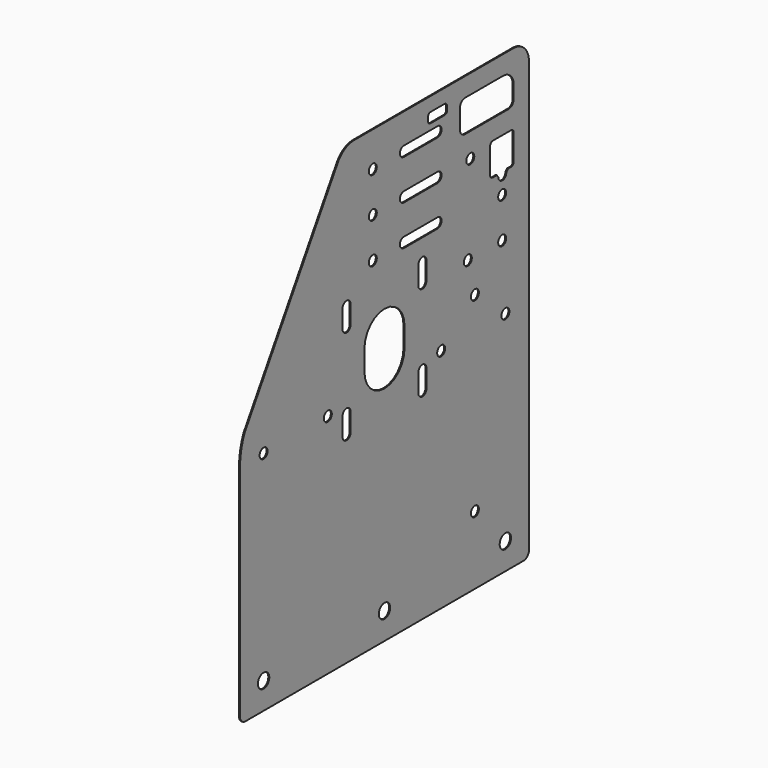
from build123d import *

# Parameters (mm, degrees)
F1_DEPTH = 12.7


with BuildPart() as f1:
    # F0 (on Right) → F1 (new body)
    with BuildSketch(Plane.YZ):
        Polygon((-4353.091649, 5396.128324), (-4357.661973, 5365.923177), (-4361.221961, 5335.582395), (-4363.76765, 5305.139707), (-4365.805899, 5244.084356), (-4365.805899, 2466.513152), (-4365.075166, 2455.364279), (-4362.895465, 2444.406186), (-4359.304083, 2433.826349), (-4354.362488, 2423.805795), (-4348.155236, 2414.515974), (-4340.788524, 2406.115838), (-4332.388389, 2398.749101), (-4323.098542, 2392.541849), (-4313.077988, 2387.600254), (-4302.498151, 2384.008872), (-4291.540058, 2381.829171), (-4280.391211, 2381.098438), (121.795413, 2381.098438), (132.94426, 2381.829171), (143.902354, 2384.008872), (154.48219, 2387.600254), (164.502744, 2392.541849), (173.792591, 2398.749101), (182.192727, 2406.115838), (189.559438, 2414.515974), (195.76669, 2423.805795), (200.708285, 2433.826349), (204.299668, 2444.406186), (206.479369, 2455.364279), (207.210101, 2466.513152), (207.248531, 7913.835506), (205.148409, 7945.880425), (198.883549, 7977.37706), (188.561116, 8007.786499), (174.357767, 8036.588448), (156.516476, 8063.290046), (135.342554, 8087.434447), (111.198304, 8108.608548), (84.496834, 8126.450016), (55.694986, 8140.653569), (25.285598, 8150.976205), (-6.210986, 8157.241318), (-38.25588, 8159.341644), (-2557.50822, 8159.341644), (-2583.457978, 8158.236744), (-2609.219902, 8154.930071), (-2634.607532, 8149.445525), (-2659.437074, 8141.822807), (-2683.528796, 8132.117111), (-2706.708303, 8120.398694), (-2728.807852, 8106.752392), (-2749.667424, 8091.276934), (-2769.136042, 8074.084385), (-2787.07281, 8055.29918), (-2803.347886, 8035.057311), (-2817.843412, 8013.505258), (-4293.377469, 5600.968503), (-4315.302114, 5543.949034), (-4324.825513, 5514.922447), (-4333.375128, 5485.594287), (-4340.941483, 5455.997191), (-4347.516095, 5426.164129), align=None)
        Polygon((-4056.517998, 2652.941811), (-4070.922364, 2671.713961), (-4079.977311, 2693.574572), (-4083.065799, 2717.033911), (-4079.977311, 2740.493249), (-4070.922364, 2762.353861), (-4056.517998, 2781.12601), (-4037.745849, 2795.530375), (-4015.885237, 2804.585323), (-3992.425899, 2807.673811), (-3968.96656, 2804.585323), (-3947.105949, 2795.530375), (-3928.333799, 2781.12601), (-3913.929434, 2762.353861), (-3904.874486, 2740.493249), (-3901.785999, 2717.033911), (-3904.874486, 2693.574572), (-3913.929434, 2671.713961), (-3928.333799, 2652.941811), (-3947.105949, 2638.537446), (-3968.96656, 2629.482498), (-3992.425899, 2626.394011), (-4015.885237, 2629.482498), (-4037.745849, 2638.537446), align=None, mode=Mode.SUBTRACT)
        Polygon((-1991.746486, 2740.493249), (-1988.657999, 2717.033911), (-1991.746486, 2693.574572), (-2000.801434, 2671.713961), (-2015.205799, 2652.941811), (-2033.977949, 2638.537446), (-2055.83856, 2629.482498), (-2079.297899, 2626.394011), (-2102.757237, 2629.482498), (-2124.617849, 2638.537446), (-2143.389998, 2652.941811), (-2157.794364, 2671.713961), (-2166.849311, 2693.574572), (-2169.937799, 2717.033911), (-2166.849311, 2740.493249), (-2157.794364, 2762.353861), (-2143.389998, 2781.12601), (-2124.617849, 2795.530375), (-2102.757237, 2804.585323), (-2079.297899, 2807.673811), (-2055.83856, 2804.585323), (-2033.977949, 2795.530375), (-2015.205799, 2781.12601), (-2000.801434, 2762.353861), align=None, mode=Mode.SUBTRACT)
        Polygon((-3947.524617, 5207.039929), (-3960.675899, 5196.94861), (-3975.99088, 5190.604935), (-3992.425899, 5188.441211), (-4008.860918, 5190.604935), (-4024.175899, 5196.94861), (-4037.327181, 5207.039929), (-4047.418524, 5220.191211), (-4053.7622, 5235.506217), (-4055.925899, 5251.941211), (-4053.7622, 5268.37623), (-4047.418524, 5283.691211), (-4037.327181, 5296.842492), (-4024.175899, 5306.933836), (-4008.860918, 5313.277512), (-3992.425899, 5315.441211), (-3975.99088, 5313.277512), (-3960.675899, 5306.933836), (-3947.524617, 5296.842492), (-3937.433273, 5283.691211), (-3931.089598, 5268.37623), (-3928.925899, 5251.941211), (-3931.089598, 5235.506217), (-3937.433273, 5220.191211), align=None, mode=Mode.SUBTRACT)
        Polygon((-2976.425899, 5315.441211), (-2959.99088, 5313.277512), (-2944.675899, 5306.933836), (-2931.524617, 5296.842492), (-2921.433273, 5283.691211), (-2915.089598, 5268.37623), (-2912.925899, 5251.941211), (-2915.089598, 5235.506217), (-2921.433273, 5220.191211), (-2931.524617, 5207.039929), (-2944.675899, 5196.94861), (-2959.99088, 5190.604935), (-2976.425899, 5188.441211), (-2992.860918, 5190.604935), (-3008.175899, 5196.94861), (-3021.327181, 5207.039929), (-3031.418524, 5220.191211), (-3037.7622, 5235.506217), (-3039.925899, 5251.941211), (-3037.7622, 5268.37623), (-3031.418524, 5283.691211), (-3021.327181, 5296.842492), (-3008.175899, 5306.933836), (-2992.860918, 5313.277512), align=None, mode=Mode.SUBTRACT)
        Polygon((-2744.064743, 4926.332134), (-2744.064743, 5154.931524), (-2741.866678, 5171.629509), (-2735.421555, 5187.189448), (-2725.168692, 5200.551321), (-2711.806819, 5210.803523), (-2696.246906, 5217.249306), (-2679.548921, 5219.447346), (-2662.850935, 5217.249306), (-2647.290997, 5210.803523), (-2633.929784, 5200.551321), (-2623.676922, 5187.189448), (-2617.231799, 5171.629509), (-2615.033099, 5154.931524), (-2615.033099, 4926.332134), (-2617.231799, 4909.634148), (-2623.676922, 4894.074235), (-2633.929784, 4880.712362), (-2647.290997, 4870.4595), (-2662.850935, 4864.014377), (-2679.548921, 4861.816311), (-2696.246906, 4864.014377), (-2711.806819, 4870.4595), (-2725.168692, 4880.712362), (-2735.421555, 4894.074235), (-2741.866678, 4909.634148), align=None, mode=Mode.SUBTRACT)
        Polygon((-256.809799, 2717.033911), (-253.721311, 2740.493249), (-244.666364, 2762.353861), (-230.261998, 2781.12601), (-211.489849, 2795.530375), (-189.629237, 2804.585323), (-166.169899, 2807.673811), (-142.71056, 2804.585323), (-120.849949, 2795.530375), (-102.077799, 2781.12601), (-87.673434, 2762.353861), (-78.618486, 2740.493249), (-75.529999, 2717.033911), (-78.618486, 2693.574572), (-87.673434, 2671.713961), (-102.077799, 2652.941811), (-120.849949, 2638.537446), (-142.71056, 2629.482498), (-166.169899, 2626.394011), (-189.629237, 2629.482498), (-211.489849, 2638.537446), (-230.261998, 2652.941811), (-244.666364, 2671.713961), (-253.721311, 2693.574572), align=None, mode=Mode.SUBTRACT)
        Polygon((-617.019899, 3300.512881), (-603.868617, 3290.421537), (-593.777273, 3277.270255), (-587.433598, 3261.955274), (-585.269899, 3245.520255), (-587.433598, 3229.085261), (-593.777273, 3213.770255), (-603.868617, 3200.618973), (-617.019899, 3190.527655), (-632.33488, 3184.18398), (-648.769899, 3182.020255), (-665.204918, 3184.18398), (-680.519899, 3190.527655), (-693.671181, 3200.618973), (-703.762524, 3213.770255), (-710.1062, 3229.085261), (-712.269899, 3245.520255), (-710.1062, 3261.955274), (-703.762524, 3277.270255), (-693.671181, 3290.421537), (-680.519899, 3300.512881), (-665.204918, 3306.856556), (-648.769899, 3309.020255), (-632.33488, 3306.856556), align=None, mode=Mode.SUBTRACT)
        Polygon((-1535.427257, 4894.074235), (-1541.87238, 4909.634148), (-1544.070445, 4926.332134), (-1544.070445, 5154.931524), (-1541.87238, 5171.629509), (-1535.427257, 5187.189448), (-1525.174394, 5200.551321), (-1511.812521, 5210.803523), (-1496.252608, 5217.249306), (-1479.554623, 5219.447346), (-1462.856637, 5217.249306), (-1447.296699, 5210.803523), (-1433.935486, 5200.551321), (-1423.682624, 5187.189448), (-1417.237501, 5171.629509), (-1415.038801, 5154.931524), (-1415.038801, 4926.332134), (-1417.237501, 4909.634148), (-1423.682624, 4894.074235), (-1433.935486, 4880.712362), (-1447.296699, 4870.4595), (-1462.856637, 4864.014377), (-1479.554623, 4861.816311), (-1496.252608, 4864.014377), (-1511.812521, 4870.4595), (-1525.174394, 4880.712362), align=None, mode=Mode.SUBTRACT)
        Polygon((-1182.169899, 5315.441211), (-1165.73488, 5313.277512), (-1150.419899, 5306.933836), (-1137.268617, 5296.842492), (-1127.177273, 5283.691211), (-1120.833598, 5268.37623), (-1118.669899, 5251.941211), (-1120.833598, 5235.506217), (-1127.177273, 5220.191211), (-1137.268617, 5207.039929), (-1150.419899, 5196.94861), (-1165.73488, 5190.604935), (-1182.169899, 5188.441211), (-1198.604918, 5190.604935), (-1213.919899, 5196.94861), (-1227.071181, 5207.039929), (-1237.162524, 5220.191211), (-1243.5062, 5235.506217), (-1245.669899, 5251.941211), (-1243.5062, 5268.37623), (-1237.162524, 5283.691211), (-1227.071181, 5296.842492), (-1213.919899, 5306.933836), (-1198.604918, 5313.277512), align=None, mode=Mode.SUBTRACT)
        Polygon((-221.162524, 5283.691211), (-211.071181, 5296.842492), (-197.919899, 5306.933836), (-182.604918, 5313.277512), (-166.169899, 5315.441211), (-149.73488, 5313.277512), (-134.419899, 5306.933836), (-121.268617, 5296.842492), (-111.177273, 5283.691211), (-104.833598, 5268.37623), (-102.669899, 5251.941211), (-104.833598, 5235.506217), (-111.177273, 5220.191211), (-121.268617, 5207.039929), (-134.419899, 5196.94861), (-149.73488, 5190.604935), (-166.169899, 5188.441211), (-182.604918, 5190.604935), (-197.919899, 5196.94861), (-211.071181, 5207.039929), (-221.162524, 5220.191211), (-227.5062, 5235.506217), (-229.669899, 5251.941211), (-227.5062, 5268.37623), align=None, mode=Mode.SUBTRACT)
        Polygon((-2161.98102, 5206.74915), (-2238.55595, 5238.467527), (-2304.312359, 5288.924195), (-2354.769027, 5354.680604), (-2386.487404, 5431.255559), (-2397.30595, 5513.430604), (-2397.30595, 5767.430604), (-2386.487404, 5849.605649), (-2354.769027, 5926.180604), (-2304.312359, 5991.937013), (-2238.55595, 6042.393681), (-2161.980995, 6074.112058), (-2079.80595, 6084.930604), (-1997.630904, 6074.112058), (-1921.05595, 6042.393681), (-1855.299541, 5991.937013), (-1804.842898, 5926.180604), (-1773.124495, 5849.605649), (-1762.30595, 5767.430604), (-1762.30595, 5513.430604), (-1773.124521, 5431.255559), (-1804.842898, 5354.680604), (-1855.299566, 5288.924195), (-1921.05595, 5238.467527), (-1997.630904, 5206.74915), (-2079.80595, 5195.930604), align=None, mode=Mode.SUBTRACT)
        Polygon((-2744.064743, 6126.326432), (-2744.064743, 6354.925822), (-2741.866678, 6371.623807), (-2735.421555, 6387.183746), (-2725.168692, 6400.545619), (-2711.806819, 6410.797821), (-2696.246906, 6417.243604), (-2679.548921, 6419.441644), (-2662.850935, 6417.243604), (-2647.290997, 6410.797821), (-2633.929784, 6400.545619), (-2623.676922, 6387.183746), (-2617.231799, 6371.623807), (-2615.033099, 6354.925822), (-2615.033099, 6126.326432), (-2617.231799, 6109.628446), (-2623.676922, 6094.068533), (-2633.929784, 6080.70666), (-2647.290997, 6070.453798), (-2662.850935, 6064.008675), (-2679.548921, 6061.810609), (-2696.246906, 6064.008675), (-2711.806819, 6070.453798), (-2725.168692, 6080.70666), (-2735.421555, 6094.068533), (-2741.866678, 6109.628446), align=None, mode=Mode.SUBTRACT)
        Polygon((-2280.87969, 6758.795626), (-2264.444696, 6760.959325), (-2248.009677, 6758.795626), (-2232.694696, 6752.451951), (-2219.543415, 6742.360607), (-2209.452071, 6729.209325), (-2203.108395, 6713.894345), (-2200.944696, 6697.459325), (-2203.108395, 6681.024332), (-2209.452071, 6665.709325), (-2219.543415, 6652.558044), (-2232.694696, 6642.466725), (-2248.009677, 6636.12305), (-2264.444696, 6633.959325), (-2280.879716, 6636.12305), (-2296.194696, 6642.466725), (-2309.345978, 6652.558044), (-2319.437297, 6665.709325), (-2325.780997, 6681.024332), (-2327.944696, 6697.459325), (-2325.780972, 6713.894345), (-2319.437297, 6729.209325), (-2309.345978, 6742.360607), (-2296.194696, 6752.451951), align=None, mode=Mode.SUBTRACT)
        Polygon((-2319.437297, 7238.458701), (-2309.345978, 7251.609982), (-2296.194696, 7261.701326), (-2280.87969, 7268.045002), (-2264.444696, 7270.208701), (-2248.009677, 7268.045002), (-2232.694696, 7261.701301), (-2219.543415, 7251.609982), (-2209.452071, 7238.458701), (-2203.108395, 7223.14372), (-2200.944696, 7206.708701), (-2203.108395, 7190.273681), (-2209.452071, 7174.958701), (-2219.543415, 7161.807419), (-2232.694696, 7151.716075), (-2248.009677, 7145.3724), (-2264.444696, 7143.208701), (-2280.879716, 7145.3724), (-2296.194696, 7151.716075), (-2309.345978, 7161.807419), (-2319.437297, 7174.958701), (-2325.780997, 7190.273681), (-2327.944696, 7206.708701), (-2325.780972, 7223.14372), align=None, mode=Mode.SUBTRACT)
        Polygon((-2264.444696, 7651.208701), (-2280.879716, 7653.3724), (-2296.194696, 7659.716075), (-2309.345978, 7669.807419), (-2319.437297, 7682.958701), (-2325.780997, 7698.273681), (-2327.944696, 7714.708701), (-2325.780972, 7731.14372), (-2319.437297, 7746.458701), (-2309.345978, 7759.609982), (-2296.194696, 7769.701326), (-2280.87969, 7776.045002), (-2264.444696, 7778.208701), (-2248.009677, 7776.045002), (-2232.694696, 7769.701301), (-2219.543415, 7759.609982), (-2209.452071, 7746.458701), (-2203.108395, 7731.14372), (-2200.944696, 7714.708701), (-2203.108395, 7698.273681), (-2209.452071, 7682.958701), (-2219.543415, 7669.807419), (-2232.694696, 7659.716075), (-2248.009677, 7653.3724), align=None, mode=Mode.SUBTRACT)
        Polygon((-1511.812521, 6070.453798), (-1525.174394, 6080.70666), (-1535.427257, 6094.068533), (-1541.87238, 6109.628446), (-1544.070445, 6126.326432), (-1544.070445, 6354.925822), (-1541.87238, 6371.623807), (-1535.427257, 6387.183746), (-1525.174394, 6400.545619), (-1511.812521, 6410.797821), (-1496.252608, 6417.243604), (-1479.554623, 6419.441644), (-1462.856637, 6417.243604), (-1447.296699, 6410.797821), (-1433.935486, 6400.545619), (-1423.682624, 6387.183746), (-1417.237501, 6371.623807), (-1415.038801, 6354.925822), (-1415.038801, 6126.326432), (-1417.237501, 6109.628446), (-1423.682624, 6094.068533), (-1433.935486, 6080.70666), (-1447.296699, 6070.453798), (-1462.856637, 6064.008675), (-1479.554623, 6061.810609), (-1496.252608, 6064.008675), align=None, mode=Mode.SUBTRACT)
        Polygon((-1804.524737, 6754.44453), (-1789.209985, 6760.787748), (-1772.77522, 6762.9516), (-1239.371816, 6762.9516), (-1222.937077, 6760.787748), (-1207.622299, 6754.44453), (-1194.470738, 6744.352983), (-1184.379826, 6731.202082), (-1178.035998, 6715.88667), (-1175.872121, 6699.451905), (-1178.035998, 6683.017139), (-1184.379826, 6667.701727), (-1194.470738, 6654.550826), (-1207.622299, 6644.459254), (-1222.937077, 6638.115426), (-1239.371816, 6635.952209), (-1772.77522, 6635.952209), (-1789.209985, 6638.115426), (-1804.524737, 6644.459254), (-1817.676299, 6654.550826), (-1827.767211, 6667.701727), (-1834.111064, 6683.017139), (-1836.274915, 6699.451905), (-1834.111064, 6715.88667), (-1827.767211, 6731.202082), (-1817.676299, 6744.352983), align=None, mode=Mode.SUBTRACT)
        Polygon((-710.1062, 5642.085261), (-712.269899, 5658.520255), (-710.1062, 5674.955274), (-703.762524, 5690.270255), (-693.671181, 5703.421537), (-680.519899, 5713.512881), (-665.204918, 5719.856556), (-648.769899, 5722.020255), (-632.33488, 5719.856556), (-617.019899, 5713.512881), (-603.868617, 5703.421537), (-593.777273, 5690.270255), (-587.433598, 5674.955274), (-585.269899, 5658.520255), (-587.433598, 5642.085261), (-593.777273, 5626.770255), (-603.868617, 5613.618973), (-617.019899, 5603.527655), (-632.33488, 5597.18398), (-648.769899, 5595.020255), (-665.204918, 5597.18398), (-680.519899, 5603.527655), (-693.671181, 5613.618973), (-703.762524, 5626.770255), align=None, mode=Mode.SUBTRACT)
        Polygon((-715.385082, 6133.885294), (-705.293738, 6120.734012), (-698.950063, 6105.419031), (-696.786364, 6088.984012), (-698.950063, 6072.548993), (-705.293738, 6057.234012), (-715.385082, 6044.08273), (-728.536364, 6033.991386), (-743.851344, 6027.647711), (-760.286364, 6025.484012), (-776.721357, 6027.647711), (-792.036364, 6033.991386), (-805.187645, 6044.08273), (-815.278964, 6057.234012), (-821.622639, 6072.548993), (-823.786364, 6088.984012), (-821.622639, 6105.419031), (-815.278964, 6120.734012), (-805.18762, 6133.885294), (-792.036364, 6143.976638), (-776.721357, 6150.320313), (-760.286338, 6152.484012), (-743.851344, 6150.320313), (-728.536338, 6143.976612), align=None, mode=Mode.SUBTRACT)
        Polygon((-261.871181, 6044.08273), (-271.962499, 6057.234012), (-278.306174, 6072.548993), (-280.469899, 6088.984012), (-278.306174, 6105.419031), (-271.962499, 6120.734012), (-261.871181, 6133.885294), (-248.719899, 6143.976638), (-233.404893, 6150.320313), (-216.969899, 6152.484012), (-200.53488, 6150.320313), (-185.219899, 6143.976612), (-172.068617, 6133.885294), (-161.977273, 6120.734012), (-155.633598, 6105.419031), (-153.469899, 6088.984012), (-155.633598, 6072.548993), (-161.977273, 6057.234012), (-172.068617, 6044.08273), (-185.219899, 6033.991386), (-200.53488, 6027.647711), (-216.969899, 6025.484012), (-233.404893, 6027.647711), (-248.719899, 6033.991386), align=None, mode=Mode.SUBTRACT)
        Polygon((-200.53488, 6535.647711), (-216.969899, 6533.484012), (-233.404918, 6535.647711), (-248.719899, 6541.991386), (-261.871181, 6552.08273), (-271.962524, 6565.234012), (-278.3062, 6580.548993), (-280.469899, 6596.984012), (-278.3062, 6613.419031), (-271.962499, 6628.734012), (-261.871181, 6641.885294), (-248.719899, 6651.976638), (-233.404918, 6658.320313), (-216.969899, 6660.484012), (-200.53488, 6658.320313), (-185.219899, 6651.976612), (-172.068617, 6641.885294), (-161.977273, 6628.734012), (-155.633598, 6613.419031), (-153.469899, 6596.984012), (-155.633598, 6580.548993), (-161.977273, 6565.234012), (-172.068617, 6552.08273), (-185.219899, 6541.991386), align=None, mode=Mode.SUBTRACT)
        Polygon((-1207.622299, 7262.442778), (-1194.470738, 7252.35184), (-1184.379826, 7239.200304), (-1178.035998, 7223.885527), (-1175.872121, 7207.450762), (-1178.035998, 7191.015361), (-1184.379826, 7175.700609), (-1194.470738, 7162.549048), (-1207.622299, 7152.458136), (-1222.937077, 7146.114283), (-1239.371816, 7143.950431), (-1772.77522, 7143.950431), (-1789.209985, 7146.114283), (-1804.524737, 7152.458136), (-1817.676299, 7162.549048), (-1827.767211, 7175.700609), (-1834.111064, 7191.015361), (-1836.274915, 7207.450762), (-1834.111064, 7223.885527), (-1827.767211, 7239.200304), (-1817.676299, 7252.35184), (-1804.524737, 7262.442778), (-1789.209985, 7268.786605), (-1772.77522, 7270.950482), (-1239.371816, 7270.950482), (-1222.937077, 7268.786605), align=None, mode=Mode.SUBTRACT)
        Polygon((-1804.524737, 7660.458619), (-1817.676299, 7670.549531), (-1827.767211, 7683.701092), (-1834.111064, 7699.015844), (-1836.274915, 7715.451244), (-1834.111064, 7731.886009), (-1827.767211, 7747.200787), (-1817.676299, 7760.352323), (-1804.524737, 7770.44326), (-1789.209985, 7776.787088), (-1772.77522, 7778.950939), (-1239.371816, 7778.950939), (-1222.937077, 7776.787088), (-1207.622299, 7770.44326), (-1194.470738, 7760.352323), (-1184.379826, 7747.200787), (-1178.035998, 7731.886009), (-1175.872121, 7715.451244), (-1178.035998, 7699.015844), (-1184.379826, 7683.701092), (-1194.470738, 7670.549531), (-1207.622299, 7660.458619), (-1222.937077, 7654.114765), (-1239.371816, 7651.950914), (-1772.77522, 7651.950914), (-1789.209985, 7654.114765), align=None, mode=Mode.SUBTRACT)
        Polygon((-1391.774915, 7897.464418), (-1391.412254, 7945.735747), (-1390.330468, 7951.174293), (-1388.548048, 7956.425108), (-1386.095501, 7961.398377), (-1383.014811, 7966.00896), (-1379.358684, 7970.177964), (-1375.189655, 7973.834116), (-1370.579072, 7976.914806), (-1365.605829, 7979.367328), (-1360.355014, 7981.149748), (-1354.916467, 7982.231534), (-1123.833389, 7982.231534), (-1118.394842, 7981.149748), (-1113.144002, 7979.367328), (-1108.170758, 7976.914806), (-1103.560175, 7973.834116), (-1099.391172, 7970.177964), (-1095.73502, 7966.00896), (-1092.65433, 7961.398377), (-1090.201807, 7956.425108), (-1088.419388, 7951.174293), (-1087.337576, 7945.735747), (-1087.337576, 7891.931181), (-1088.419388, 7886.492634), (-1090.201807, 7881.241819), (-1092.65433, 7876.268576), (-1095.73502, 7871.657993), (-1099.391172, 7867.488964), (-1103.560175, 7863.832837), (-1108.170758, 7860.752147), (-1113.144002, 7858.2996), (-1118.394842, 7856.51718), (-1123.833389, 7855.435394), (-1148.470855, 7855.344716), (-1349.38323, 7855.072733), (-1360.355014, 7856.51718), (-1365.605829, 7858.2996), (-1370.579072, 7860.752147), (-1375.189655, 7863.832837), (-1379.358684, 7867.488964), (-1383.014811, 7871.657993), (-1386.095501, 7876.268576), (-1388.548048, 7881.241819), (-1390.330468, 7886.492634), align=None, mode=Mode.SUBTRACT)
        Polygon((-658.27976, 7205.53964), (-660.443459, 7189.104621), (-666.787135, 7173.78964), (-676.878479, 7160.638358), (-690.02976, 7150.547015), (-705.344741, 7144.203339), (-721.77976, 7142.03964), (-738.21478, 7144.203339), (-753.52976, 7150.547015), (-766.681042, 7160.638358), (-776.772361, 7173.78964), (-783.116036, 7189.104621), (-785.27976, 7205.53964), (-783.116036, 7221.974634), (-776.772361, 7237.28964), (-766.681042, 7250.440922), (-753.52976, 7260.53224), (-738.214754, 7266.875916), (-721.77976, 7269.03964), (-705.344741, 7266.875916), (-690.02976, 7260.53224), (-676.878479, 7250.440922), (-666.787135, 7237.28964), (-660.443459, 7221.974634), align=None, mode=Mode.SUBTRACT)
        Polygon((-275.532977, 6803.446896), (-277.70328, 6819.881026), (-302.340747, 6850.697678), (-365.078213, 6850.658054), (-376.049997, 6852.102526), (-381.300812, 6853.884946), (-386.274056, 6856.337468), (-390.884639, 6859.418158), (-395.053668, 6863.07431), (-398.709794, 6867.243314), (-401.790484, 6871.853897), (-404.243032, 6876.827166), (-406.025426, 6882.077981), (-407.469899, 6893.049739), (-407.321156, 7219.646724), (-406.025426, 7229.488691), (-404.243032, 7234.739506), (-401.790484, 7239.712749), (-398.709794, 7244.323332), (-395.053668, 7248.492361), (-390.884639, 7252.148488), (-386.274056, 7255.229178), (-381.300812, 7257.681725), (-376.049997, 7259.464145), (-365.078213, 7260.908592), (-70.548805, 7260.545931), (-65.110233, 7259.464145), (-59.859418, 7257.681725), (-54.886174, 7255.229178), (-50.275592, 7252.148488), (-46.106563, 7248.492361), (-42.450436, 7244.323332), (-39.369746, 7239.712749), (-36.917198, 7234.739506), (-35.134804, 7229.488691), (-34.052993, 7224.050144), (-34.052993, 6887.516527), (-35.134804, 6882.077981), (-36.917198, 6876.827166), (-39.369746, 6871.853897), (-42.450436, 6867.243314), (-46.106563, 6863.07431), (-50.275592, 6859.418158), (-54.886174, 6856.337468), (-59.859418, 6853.884946), (-65.110233, 6852.102526), (-70.548805, 6851.02074), (-126.065813, 6850.930062), (-150.70328, 6819.93208), (-152.8604, 6803.496197), (-159.197904, 6788.178677), (-169.283964, 6775.023331), (-182.431182, 6764.926704), (-197.743623, 6758.576882), (-214.177753, 6756.406553), (-230.613636, 6758.563674), (-245.931182, 6764.901177), (-259.086528, 6774.987237), (-269.183129, 6788.134455), align=None, mode=Mode.SUBTRACT)
        Polygon((-40.116379, 7561.503927), (-44.724752, 7552.159064), (-50.513437, 7543.495683), (-57.383401, 7535.661967), (-65.217116, 7528.792004), (-73.880497, 7523.003318), (-83.225361, 7518.394945), (-93.091787, 7515.045727), (-103.310944, 7513.013016), (-113.708028, 7512.331559), (-805.297983, 7512.331559), (-815.695041, 7513.013016), (-825.914223, 7515.045727), (-835.780625, 7518.394945), (-845.125488, 7523.003318), (-853.788869, 7528.792004), (-861.622585, 7535.661967), (-868.492548, 7543.495683), (-874.281259, 7552.159064), (-878.889632, 7561.503927), (-882.238825, 7571.370354), (-884.271536, 7581.58951), (-884.952993, 7591.986569), (-884.952993, 7838.386635), (-884.271536, 7848.783693), (-882.238825, 7859.002875), (-878.889632, 7868.869276), (-874.281259, 7878.214139), (-868.492548, 7886.877521), (-861.622585, 7894.711236), (-853.788869, 7901.5812), (-845.125488, 7907.36991), (-835.780625, 7911.978283), (-825.914223, 7915.327476), (-815.695041, 7917.360188), (-805.297983, 7918.041644), (-202.940539, 7918.041644), (-180.896285, 7916.596791), (-159.229222, 7912.286944), (-138.310087, 7905.185841), (-118.496766, 7895.415019), (-100.128324, 7883.141612), (-83.51901, 7868.575627), (-68.95305, 7851.966338), (-56.679643, 7833.597871), (-46.908796, 7813.784576), (-39.807693, 7792.865415), (-35.497846, 7771.198351), (-34.052993, 7749.154098), (-34.052993, 7591.986569), (-34.734449, 7581.58951), (-36.767186, 7571.370354), align=None, mode=Mode.SUBTRACT)
    extrude(amount=F1_DEPTH)


solid = f1.part
